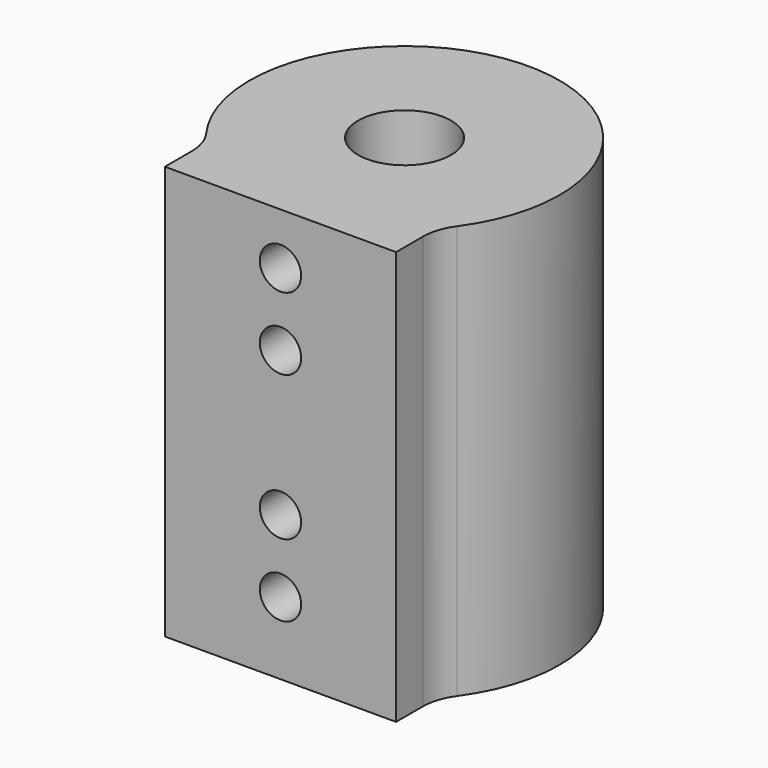
from build123d import *

# Parameters (mm, degrees)
SKETCH_R          = 15
SKETCH_R_2        = 7.5
PAD_DEPTH         = 20
SKETCH001_R       = 15
SKETCH001_R_2     = 4.5
PAD001_DEPTH      = 20
SKETCH002_W       = 20
SKETCH002_H       = 7
POCKET_DEPTH      = 40
POCKET_FACE2_W    = 1.18034
POCKET_FACE2_H    = 40
POCKET001_DEPTH   = 5
POCKET001_FACE2_W = 1.18034
POCKET001_FACE2_H = 40
POCKET002_DEPTH   = 5
POCKET002_FACE7_W = 22.36068
POCKET002_FACE7_H = 40
PAD002_DEPTH      = 5
FILLET_R          = 5
SKETCH003_R       = 2
POCKET003_DEPTH   = 13


with BuildPart() as part:
    # Sketch → Pad (new body)
    with BuildSketch(Plane.XY):
        Circle(SKETCH_R)
        Circle(SKETCH_R_2, mode=Mode.SUBTRACT)
    extrude(amount=PAD_DEPTH)

    # Sketch001 (on Face4 of Pad) → Pad001 (join)
    with BuildSketch(Plane.XY.offset(20)):
        Circle(SKETCH001_R)
        Circle(SKETCH001_R_2, mode=Mode.SUBTRACT)
    extrude(amount=PAD001_DEPTH)

    # Sketch002 (on Face1 of Pad001) → Pocket (cut)
    with BuildSketch(Plane(origin=(0, 0, 0), x_dir=(1, 0, 0), z_dir=(0, 0, -1))):
        with Locations((0, 13.5)):
            Rectangle(SKETCH002_W, SKETCH002_H)
    extrude(amount=-POCKET_DEPTH, mode=Mode.SUBTRACT)

    # Pocket Face2 → Pocket001 (cut)
    with BuildSketch(Plane(origin=(10, -10.59017, 20), x_dir=(0, 1, 0), z_dir=(-1, 0, 0))):
        Rectangle(POCKET_FACE2_W, POCKET_FACE2_H)
    extrude(amount=-POCKET001_DEPTH, mode=Mode.SUBTRACT)

    # Pocket001 Face2 → Pocket002 (cut)
    with BuildSketch(Plane(origin=(-10, -10.59017, 20), x_dir=(0, -1, 0), z_dir=(1, 0, 0))):
        Rectangle(POCKET001_FACE2_W, POCKET001_FACE2_H)
    extrude(amount=-POCKET002_DEPTH, mode=Mode.SUBTRACT)

    # Pocket002 Face7 → Pad002 (add)
    with BuildSketch(Plane(origin=(0, -10, 20), x_dir=(-1, 0, 0), z_dir=(0, -1, 0))):
        Rectangle(POCKET002_FACE7_W, POCKET002_FACE7_H)
    extrude(amount=PAD002_DEPTH)

    # Fillet
    fillet_edges = [part.edges().sort_by_distance(p)[0] for p in [
        (11.18034, -10, 20),
        (-11.18034, -10, 20),
    ]]
    fillet(fillet_edges, radius=FILLET_R)

    # Sketch003 (on Face7 of Fillet) → Pocket003 (cut)
    with BuildSketch(Plane.XZ.offset(15)):
        with Locations((0, 35)):
            Circle(SKETCH003_R)
        with Locations((0, 14)):
            Circle(SKETCH003_R)
        with Locations((0, 28)):
            Circle(SKETCH003_R)
        with Locations((0, 7)):
            Circle(SKETCH003_R)
    extrude(amount=-POCKET003_DEPTH, mode=Mode.SUBTRACT)


solid = part.part
